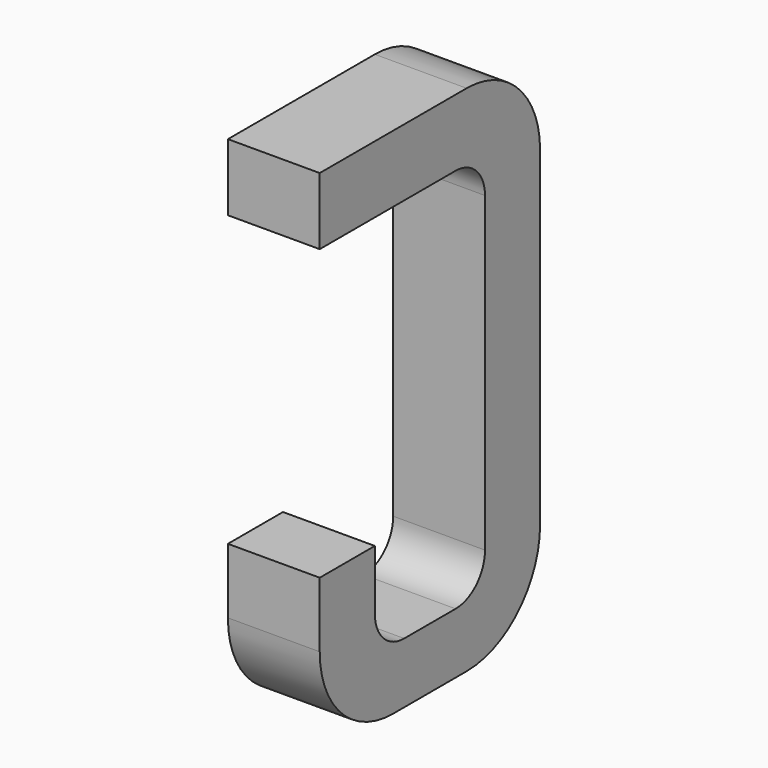
from build123d import *

# Parameters (mm, degrees)
BOX119_W     = 0.5
BOX119_H     = 1.5
BOX119_DEPTH = 2.795
FILLET243_R  = 0.5
FILLET254_R  = 0.5
FILLET265_R  = 0.5
BOX116_W     = 0.75
BOX116_H     = 2.1
BOX116_DEPTH = 1
FILLET268_R  = 0.2
FILLET255_R  = 0.2
FILLET250_R  = 0.2
FILLET267_R  = 0.2
BOX126_W     = 1
BOX126_H     = 1.575
BOX126_DEPTH = 3


with BuildPart() as part:
    # Box119 → Box119 (join)
    with BuildSketch(Plane(origin=(-0.25, 11.125, 0), x_dir=(1, 0, 0), z_dir=(0, 0, 1))):
        with Locations((0.25, 0.75)):
            Rectangle(BOX119_W, BOX119_H)
    extrude(amount=BOX119_DEPTH)

    # Fillet243
    fillet243_edges = [part.edges().sort_by_distance(p)[0] for p in [
        (0, 12.625, 0),
    ]]
    fillet(fillet243_edges, radius=FILLET243_R)

    # Fillet254
    fillet254_edges = [part.edges().sort_by_distance(p)[0] for p in [
        (0, 12.625, 2.795),
    ]]
    fillet(fillet254_edges, radius=FILLET254_R)

    # Fillet265
    fillet265_edges = [part.edges().sort_by_distance(p)[0] for p in [
        (0, 11.125, 0),
    ]]
    fillet(fillet265_edges, radius=FILLET265_R)

    # Box116 → Box116 (cut)
    with BuildSketch(Plane(origin=(-0.5, 11.5, 0.33), x_dir=(0, 1, 0), z_dir=(1, 0, 0))):
        with Locations((0.375, 1.05)):
            Rectangle(BOX116_W, BOX116_H)
    extrude(amount=BOX116_DEPTH, mode=Mode.SUBTRACT)

    # Fillet268
    fillet268_edges = [part.edges().sort_by_distance(p)[0] for p in [
        (0, 11.5, 0.33),
    ]]
    fillet(fillet268_edges, radius=FILLET268_R)

    # Fillet255
    fillet255_edges = [part.edges().sort_by_distance(p)[0] for p in [
        (0, 12.25, 0.33),
    ]]
    fillet(fillet255_edges, radius=FILLET255_R)

    # Fillet250
    fillet250_edges = [part.edges().sort_by_distance(p)[0] for p in [
        (0, 11.5, 2.43),
    ]]
    fillet(fillet250_edges, radius=FILLET250_R)

    # Fillet267
    fillet267_edges = [part.edges().sort_by_distance(p)[0] for p in [
        (0, 12.25, 2.43),
    ]]
    fillet(fillet267_edges, radius=FILLET267_R)

    # Box126 → Box126 (cut)
    with BuildSketch(Plane(origin=(-1, 11, 0.855), x_dir=(0, 1, 0), z_dir=(1, 0, 0))):
        with Locations((0.5, 0.7875)):
            Rectangle(BOX126_W, BOX126_H)
    extrude(amount=BOX126_DEPTH, mode=Mode.SUBTRACT)


with BuildPart() as part_1:
    # Body038 placement: moved
    add(part.part.moved(Location((7.62, 0, 0))))


solid = part_1.part
